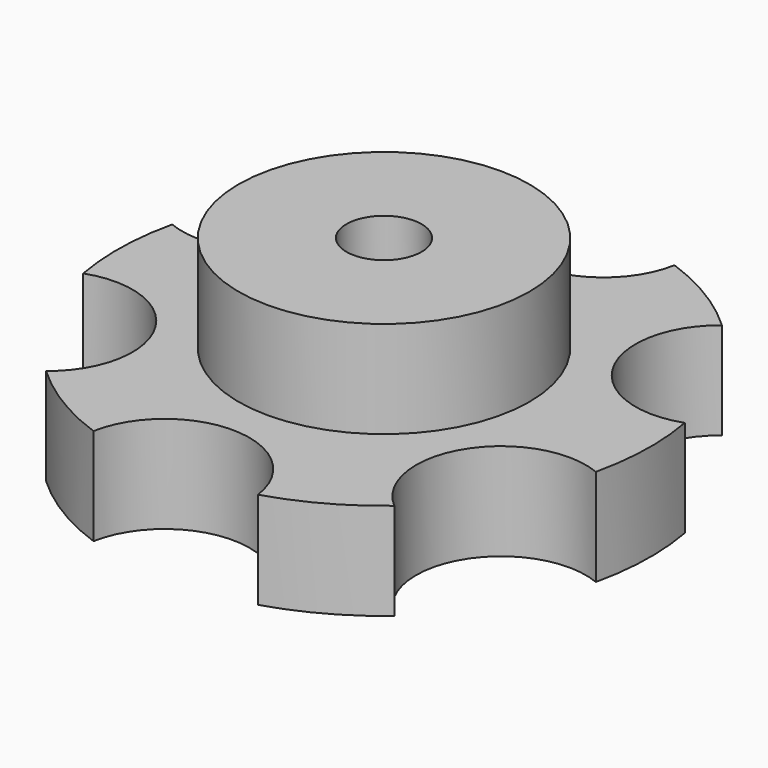
from build123d import *

# Parameters (mm, degrees)
F0_R      = 11
F1_DEPTH  = 4
F2_R      = 3.5
F3_DEPTH  = 4
F4_COUNT  = 6
F5_R      = 6
F6_DEPTH  = 4
F8_DEPTH  = 3.5
F9_R      = 1.55
F10_DEPTH = 8.001


with BuildPart() as f1:
    # F0 (on Top) → F1 (new body)
    with BuildSketch(Plane.XY):
        Circle(F0_R)
    extrude(amount=F1_DEPTH)

    # F4: F3 ×6 about axis
    f4_axis = Axis((0, 0, 4), (0, 0, 1))


with BuildPart() as f3:
    # F2 (on face) → F3 (new body, through all)
    with BuildSketch(Plane.XY.offset(4)):
        with Locations((0.2514506495, 10.9971256504)):
            Circle(F2_R)
    extrude(amount=-F3_DEPTH)


with BuildPart() as f1_1:
    add(f1.part)
    for i in range(1, F4_COUNT):
        add(f3.part.rotate(f4_axis, i * 360 / F4_COUNT), mode=Mode.SUBTRACT)

    # F4#seed: cut F3
    add(f3.part, mode=Mode.SUBTRACT)

    # F5 (on face) → F6 (join)
    with BuildSketch(Plane.XY.offset(4)):
        Circle(F5_R)
    extrude(amount=F6_DEPTH)

    # F7 (on face) → F8 (cut)
    with BuildSketch(Plane(origin=(0, 0, 0), x_dir=(1, 0, 0), z_dir=(0, 0, -1))):
        Polygon((1.6743157806, 2.9), (-1.6743157806, 2.9), (-3.3486315613, 0), (-1.6743157806, -2.9), (1.6743157806, -2.9), (3.3486315613, 0), align=None)
    extrude(amount=-F8_DEPTH, mode=Mode.SUBTRACT)

    # F9 (on face) → F10 (cut, through all)
    with BuildSketch(Plane.XY.offset(8)):
        Circle(F9_R)
    extrude(amount=-F10_DEPTH, mode=Mode.SUBTRACT)


solid = f1_1.part
